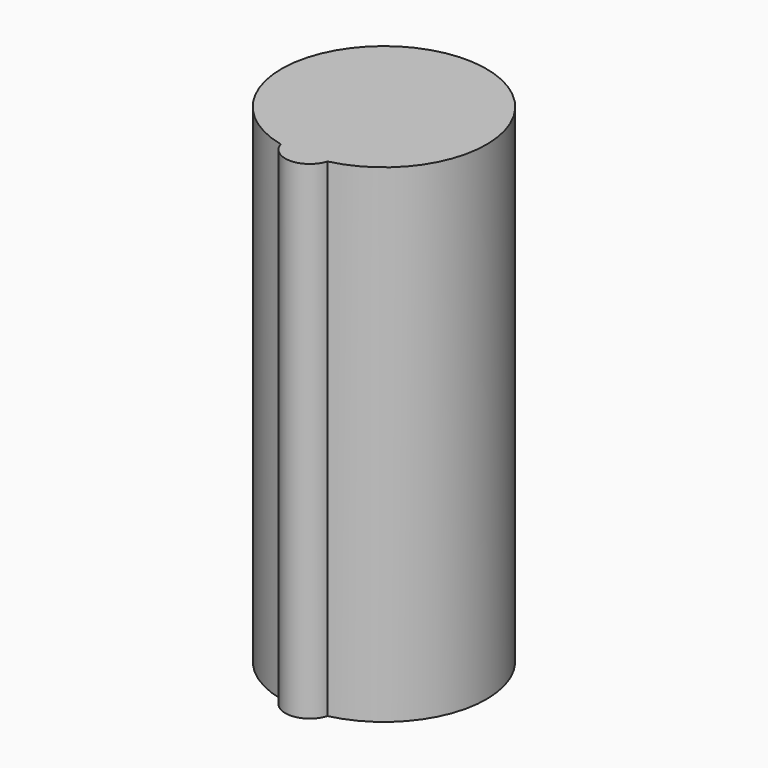
from build123d import *

# Parameters (mm, degrees)
CYLINDER004_R     = 2.1
CYLINDER004_DEPTH = 10
CYLINDER005_R     = 0.5
CYLINDER005_DEPTH = 10


with BuildPart() as cylinder004:
    # Cylinder004 → Cylinder004 (new body)
    with BuildSketch(Plane(origin=(0, 10, 0), x_dir=(1, 0, 0), z_dir=(0, 0, 1))):
        Circle(CYLINDER004_R)
    extrude(amount=CYLINDER004_DEPTH)


with BuildPart() as fusion003:
    # Cylinder005 → Cylinder005 (new body)
    with BuildSketch(Plane(origin=(0, 8.1, 0), x_dir=(1, 0, 0), z_dir=(0, 0, 1))):
        Circle(CYLINDER005_R)
    extrude(amount=CYLINDER005_DEPTH)

    # Fusion003: union Cylinder004
    add(cylinder004.part)


solid = fusion003.part
